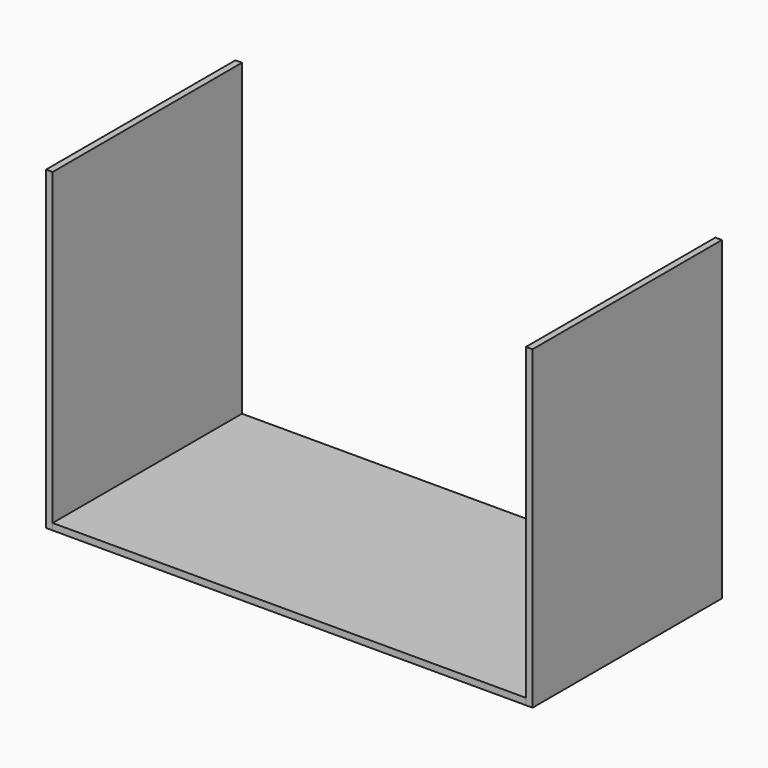
from build123d import *

# Parameters (mm, degrees)
F0_W     = 914.4
F0_H     = 12.7
F1_DEPTH = 457.2
F2_W     = 12.7
F2_H     = 609.6
F3_DEPTH = 457.2


with BuildPart() as f1:
    # F0 (on Front) → F1 (new body)
    with BuildSketch(Plane.XZ):
        with Locations((457.2, 6.35)):
            Rectangle(F0_W, F0_H)
    extrude(amount=F1_DEPTH)


with BuildPart() as f3:
    # F2 (on Front) → F3 (new body)
    with BuildSketch(Plane.XZ):
        with Locations((-6.35, 304.8)):
            Rectangle(F2_W, F2_H)
        with Locations((920.75, 304.8)):
            Rectangle(F2_W, F2_H)
    extrude(amount=F3_DEPTH)


solid = Compound([f1.part, f3.part])
